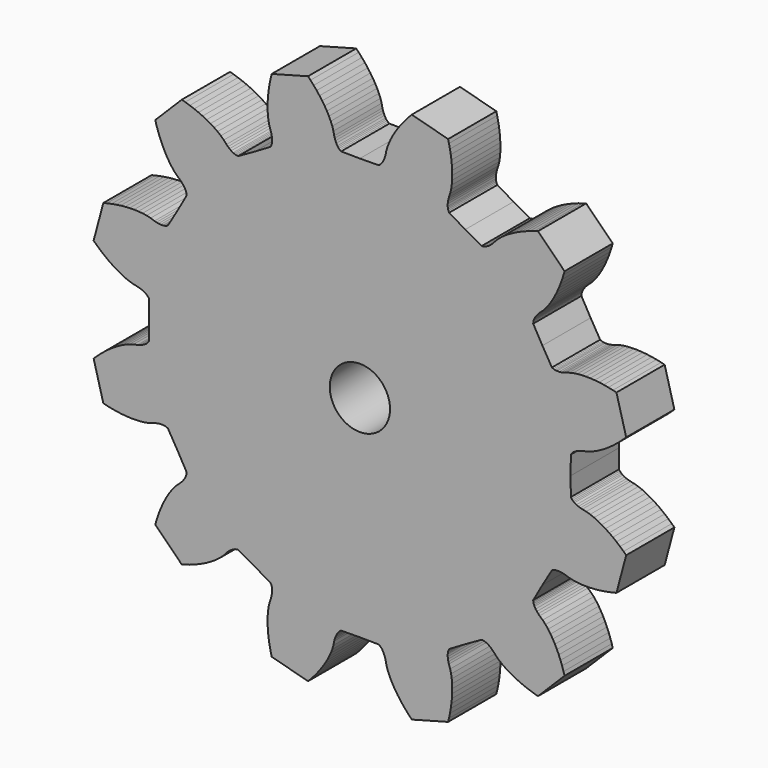
from build123d import *

# Parameters (mm, degrees)
F1_DEPTH = 3
F2_R     = 1.5
F3_DEPTH = 3.001


with BuildPart() as f1:
    # F0 (on Front) → F1 (new body)
    with BuildSketch(Plane.XZ):
        Polygon((-10.501529, 0.933249), (-10.492629, 4.9e-05), (-10.501529, -0.933051), (-10.546029, -0.998351), (-10.591729, -1.046951), (-10.638329, -1.086551), (-10.685329, -1.120051), (-10.780529, -1.174551), (-10.876929, -1.217251), (-10.974229, -1.251251), (-11.072329, -1.278251), (-11.269929, -1.318351), (-11.465429, -1.376351), (-11.658629, -1.452251), (-11.849829, -1.541951), (-12.039029, -1.643451), (-12.226229, -1.755851), (-12.411329, -1.878251), (-12.594229, -2.010151), (-12.774729, -2.151251), (-12.952829, -2.301051), (-13.128229, -2.459251), (-13.257929, -2.583351), (-12.773429, -4.391551), (-12.599029, -4.434151), (-12.368029, -4.483551), (-12.138929, -4.524251), (-11.912029, -4.556051), (-11.687729, -4.578951), (-11.466229, -4.592351), (-11.247929, -4.596051), (-11.033229, -4.589451), (-10.822829, -4.571451), (-10.617629, -4.540651), (-10.419329, -4.493051), (-10.228029, -4.428951), (-10.129629, -4.403351), (-10.028429, -4.384151), (-9.923529, -4.372851), (-9.813829, -4.372551), (-9.756329, -4.378051), (-9.696229, -4.389051), (-9.632329, -4.408251), (-9.561129, -4.442551), (-9.086929, -5.246251), (-8.628029, -6.058851), (-8.633829, -6.137651), (-8.649229, -6.202551), (-8.669729, -6.260051), (-8.693729, -6.312651), (-8.748929, -6.407551), (-8.811029, -6.492651), (-8.878329, -6.570751), (-8.949729, -6.643151), (-9.100829, -6.776751), (-9.241129, -6.924651), (-9.370529, -7.087051), (-9.491229, -7.260251), (-9.604329, -7.442851), (-9.710329, -7.633751), (-9.809329, -7.832251), (-9.901829, -8.037951), (-9.987629, -8.250351), (-10.066929, -8.469151), (-10.139729, -8.693851), (-10.190029, -8.866251), (-8.866329, -10.189951), (-8.693929, -10.139651), (-8.469229, -10.066851), (-8.250429, -9.987551), (-8.038029, -9.901751), (-7.832329, -9.809251), (-7.633829, -9.710251), (-7.442929, -9.604251), (-7.260329, -9.491151), (-7.087129, -9.370451), (-6.924729, -9.241051), (-6.776829, -9.100751), (-6.643229, -8.949651), (-6.570829, -8.878251), (-6.492729, -8.810951), (-6.407629, -8.748851), (-6.312729, -8.693651), (-6.260129, -8.669651), (-6.202629, -8.649151), (-6.137729, -8.633751), (-6.058929, -8.627951), (-5.246329, -9.086851), (-4.442629, -9.561051), (-4.408329, -9.632251), (-4.389129, -9.696151), (-4.378129, -9.756251), (-4.372629, -9.813751), (-4.372929, -9.923451), (-4.384229, -10.028351), (-4.403429, -10.129551), (-4.429029, -10.227951), (-4.493129, -10.419251), (-4.540729, -10.617551), (-4.571529, -10.822751), (-4.589529, -11.033151), (-4.596129, -11.247851), (-4.592429, -11.466151), (-4.579029, -11.687651), (-4.556129, -11.911951), (-4.524329, -12.138851), (-4.483629, -12.367951), (-4.434229, -12.598951), (-4.391629, -12.773351), (-2.583429, -13.257851), (-2.459329, -13.128151), (-2.301129, -12.952751), (-2.151329, -12.774651), (-2.010229, -12.594151), (-1.878329, -12.411251), (-1.755929, -12.226151), (-1.643529, -12.038951), (-1.542029, -11.849751), (-1.452329, -11.658551), (-1.376429, -11.465351), (-1.318429, -11.269851), (-1.278329, -11.072251), (-1.251329, -10.974151), (-1.217329, -10.876851), (-1.174629, -10.780451), (-1.120129, -10.685251), (-1.086629, -10.638251), (-1.047029, -10.591651), (-0.998429, -10.545951), (-0.933129, -10.501451), (-2.9e-05, -10.492551), (0.933171, -10.501451), (0.998471, -10.545951), (1.047071, -10.591651), (1.086671, -10.638251), (1.120171, -10.685251), (1.174671, -10.780451), (1.217371, -10.876851), (1.251371, -10.974151), (1.278371, -11.072251), (1.318471, -11.269851), (1.376471, -11.465351), (1.452371, -11.658551), (1.541971, -11.849751), (1.643571, -12.038951), (1.755971, -12.226151), (1.878371, -12.411251), (2.010271, -12.594151), (2.151271, -12.774651), (2.301071, -12.952751), (2.459371, -13.128151), (2.583471, -13.257851), (4.391671, -12.773351), (4.434271, -12.598951), (4.483571, -12.367951), (4.524271, -12.138851), (4.556171, -11.911951), (4.578971, -11.687651), (4.592471, -11.466151), (4.596171, -11.247851), (4.589571, -11.033151), (4.571571, -10.822751), (4.540671, -10.617551), (4.493171, -10.419251), (4.429071, -10.227951), (4.403471, -10.129551), (4.384171, -10.028351), (4.372971, -9.923451), (4.372571, -9.813751), (4.378071, -9.756251), (4.389071, -9.696151), (4.408271, -9.632251), (4.442671, -9.561051), (5.246371, -9.086851), (6.058871, -8.627951), (6.137671, -8.633751), (6.202671, -8.649151), (6.260171, -8.669651), (6.312771, -8.693651), (6.407571, -8.748851), (6.492771, -8.810951), (6.570771, -8.878251), (6.643271, -8.949651), (6.776771, -9.100751), (6.924771, -9.241051), (7.087071, -9.370451), (7.260371, -9.491151), (7.442871, -9.604251), (7.633771, -9.710251), (7.832371, -9.809251), (8.038071, -9.901751), (8.250471, -9.987551), (8.469171, -10.066851), (8.693971, -10.139651), (8.866371, -10.189951), (10.189971, -8.866251), (10.139671, -8.693851), (10.066971, -8.469151), (9.987671, -8.250351), (9.901771, -8.037951), (9.809371, -7.832251), (9.710271, -7.633751), (9.604371, -7.442851), (9.491271, -7.260251), (9.370571, -7.087051), (9.241171, -6.924651), (9.100871, -6.776751), (8.949771, -6.643151), (8.878271, -6.570751), (8.811071, -6.492651), (8.748871, -6.407551), (8.693671, -6.312651), (8.669771, -6.260051), (8.649171, -6.202551), (8.633871, -6.137651), (8.627971, -6.058851), (9.086871, -5.246251), (9.561171, -4.442551), (9.632371, -4.408251), (9.696271, -4.389051), (9.756371, -4.378051), (9.813871, -4.372551), (9.923571, -4.372851), (10.028371, -4.384151), (10.129671, -4.403351), (10.228071, -4.428951), (10.419271, -4.493051), (10.617671, -4.540651), (10.822871, -4.571451), (11.033271, -4.589451), (11.247871, -4.596051), (11.466271, -4.592351), (11.687771, -4.578951), (11.912071, -4.556051), (12.138971, -4.524251), (12.367971, -4.483551), (12.599071, -4.434151), (12.773471, -4.391551), (13.257971, -2.583351), (13.128271, -2.459251), (12.952871, -2.301051), (12.774771, -2.151251), (12.594271, -2.010151), (12.411371, -1.878251), (12.226271, -1.755851), (12.039071, -1.643451), (11.849871, -1.541951), (11.658671, -1.452251), (11.465471, -1.376351), (11.269971, -1.318351), (11.072271, -1.278251), (10.974271, -1.251251), (10.876971, -1.217251), (10.780571, -1.174551), (10.685371, -1.120051), (10.638271, -1.086551), (10.591771, -1.046951), (10.545971, -0.998351), (10.501571, -0.933051), (10.492671, 4.9e-05), (10.501571, 0.933249), (10.545971, 0.998549), (10.591771, 1.047149), (10.638271, 1.086749), (10.685371, 1.120249), (10.780571, 1.174749), (10.876971, 1.217449), (10.974271, 1.251449), (11.072271, 1.278449), (11.269971, 1.318549), (11.465471, 1.376549), (11.658671, 1.452449), (11.849871, 1.542049), (12.039071, 1.643649), (12.226271, 1.756049), (12.411371, 1.878449), (12.594271, 2.010349), (12.774771, 2.151349), (12.952871, 2.301149), (13.128271, 2.459449), (13.257971, 2.583549), (12.773471, 4.391749), (12.599071, 4.434349), (12.367971, 4.483649), (12.138971, 4.524349), (11.912071, 4.556249), (11.687771, 4.579049), (11.466271, 4.592549), (11.247871, 4.596249), (11.033271, 4.589649), (10.822871, 4.571649), (10.617671, 4.540749), (10.419271, 4.493249), (10.228071, 4.429149), (10.129671, 4.403549), (10.028371, 4.384249), (9.923571, 4.373049), (9.813871, 4.372649), (9.756371, 4.378149), (9.696271, 4.389149), (9.632371, 4.408349), (9.561171, 4.442749), (9.086871, 5.246449), (8.627971, 6.058949), (8.633871, 6.137749), (8.649171, 6.202749), (8.669771, 6.260249), (8.693671, 6.312849), (8.748871, 6.407649), (8.811071, 6.492849), (8.878271, 6.570849), (8.949771, 6.643349), (9.100871, 6.776849), (9.241171, 6.924849), (9.370571, 7.087149), (9.491271, 7.260449), (9.604371, 7.442949), (9.710271, 7.633849), (9.809371, 7.832449), (9.901771, 8.038149), (9.987671, 8.250549), (10.066971, 8.469249), (10.139671, 8.694049), (10.189971, 8.866449), (8.866371, 10.190049), (8.693971, 10.139749), (8.469171, 10.067049), (8.250471, 9.987749), (8.038071, 9.901849), (7.832371, 9.809449), (7.633771, 9.710349), (7.442871, 9.604449), (7.260371, 9.491349), (7.087071, 9.370649), (6.924771, 9.241249), (6.776771, 9.100949), (6.643271, 8.949849), (6.570771, 8.878349), (6.492771, 8.811149), (6.407571, 8.748949), (6.312771, 8.693749), (6.260171, 8.669849), (6.202671, 8.649249), (6.137671, 8.633949), (6.058871, 8.628049), (5.246371, 9.086949), (4.442671, 9.561249), (4.408271, 9.632449), (4.389071, 9.696349), (4.378071, 9.756449), (4.372571, 9.813949), (4.372971, 9.923649), (4.384171, 10.028449), (4.403471, 10.129749), (4.429071, 10.228149), (4.493171, 10.419349), (4.540671, 10.617749), (4.571571, 10.822949), (4.589571, 11.033349), (4.596171, 11.247949), (4.592471, 11.466349), (4.578971, 11.687849), (4.556171, 11.912149), (4.524271, 12.139049), (4.483571, 12.368049), (4.434271, 12.599149), (4.391671, 12.773549), (2.583471, 13.258049), (2.459371, 13.128349), (2.301071, 12.952949), (2.151271, 12.774849), (2.010271, 12.594349), (1.878371, 12.411449), (1.755971, 12.226349), (1.643571, 12.039149), (1.541971, 11.849949), (1.452371, 11.658749), (1.376471, 11.465549), (1.318471, 11.270049), (1.278371, 11.072349), (1.251371, 10.974349), (1.217371, 10.877049), (1.174671, 10.780649), (1.120171, 10.685449), (1.086671, 10.638349), (1.047071, 10.591849), (0.998471, 10.546049), (0.933171, 10.501649), (-2.9e-05, 10.492749), (-0.933129, 10.501649), (-0.998429, 10.546049), (-1.047029, 10.591849), (-1.086629, 10.638349), (-1.120129, 10.685449), (-1.174629, 10.780649), (-1.217329, 10.877049), (-1.251329, 10.974349), (-1.278329, 11.072349), (-1.318429, 11.270049), (-1.376429, 11.465549), (-1.452329, 11.658749), (-1.542029, 11.849949), (-1.643529, 12.039149), (-1.755929, 12.226349), (-1.878329, 12.411449), (-2.010229, 12.594349), (-2.151329, 12.774849), (-2.301129, 12.952949), (-2.459329, 13.128349), (-2.583429, 13.258049), (-4.391629, 12.773549), (-4.434229, 12.599149), (-4.483629, 12.368049), (-4.524329, 12.139049), (-4.556129, 11.912149), (-4.579029, 11.687849), (-4.592429, 11.466349), (-4.596129, 11.247949), (-4.589529, 11.033349), (-4.571529, 10.822949), (-4.540729, 10.617749), (-4.493129, 10.419349), (-4.429029, 10.228149), (-4.403429, 10.129749), (-4.384229, 10.028449), (-4.372929, 9.923649), (-4.372629, 9.813949), (-4.378129, 9.756449), (-4.389129, 9.696349), (-4.408329, 9.632449), (-4.442629, 9.561249), (-5.246329, 9.086949), (-6.058929, 8.628049), (-6.137729, 8.633949), (-6.202629, 8.649249), (-6.260129, 8.669849), (-6.312729, 8.693749), (-6.407629, 8.748949), (-6.492729, 8.811149), (-6.570829, 8.878349), (-6.643229, 8.949849), (-6.776829, 9.100949), (-6.924729, 9.241249), (-7.087129, 9.370649), (-7.260329, 9.491349), (-7.442929, 9.604449), (-7.633829, 9.710349), (-7.832329, 9.809449), (-8.038029, 9.901849), (-8.250429, 9.987749), (-8.469229, 10.067049), (-8.693929, 10.139749), (-8.866329, 10.190049), (-10.190029, 8.866449), (-10.139729, 8.694049), (-10.066929, 8.469249), (-9.987629, 8.250549), (-9.901829, 8.038149), (-9.809329, 7.832449), (-9.710329, 7.633849), (-9.604329, 7.442949), (-9.491229, 7.260449), (-9.370529, 7.087149), (-9.241129, 6.924849), (-9.100829, 6.776849), (-8.949729, 6.643349), (-8.878329, 6.570849), (-8.811029, 6.492849), (-8.748929, 6.407649), (-8.693729, 6.312849), (-8.669729, 6.260249), (-8.649229, 6.202749), (-8.633829, 6.137749), (-8.628029, 6.058949), (-9.086929, 5.246449), (-9.561129, 4.442749), (-9.632329, 4.408349), (-9.696229, 4.389149), (-9.756329, 4.378149), (-9.813829, 4.372649), (-9.923529, 4.373049), (-10.028429, 4.384249), (-10.129629, 4.403549), (-10.228029, 4.429149), (-10.419329, 4.493249), (-10.617629, 4.540749), (-10.822829, 4.571649), (-11.033229, 4.589649), (-11.247929, 4.596249), (-11.466229, 4.592549), (-11.687729, 4.579049), (-11.912029, 4.556249), (-12.138929, 4.524349), (-12.368029, 4.483649), (-12.599029, 4.434349), (-12.773429, 4.391749), (-13.257929, 2.583549), (-13.128229, 2.459449), (-12.952829, 2.301149), (-12.774729, 2.151349), (-12.594229, 2.010349), (-12.411329, 1.878449), (-12.226229, 1.756049), (-12.039029, 1.643649), (-11.849829, 1.542049), (-11.658629, 1.452449), (-11.465429, 1.376549), (-11.269929, 1.318549), (-11.072329, 1.278449), (-10.974229, 1.251449), (-10.876929, 1.217449), (-10.780529, 1.174749), (-10.685329, 1.120249), (-10.638329, 1.086749), (-10.591729, 1.047149), (-10.546029, 0.998549), align=None)
    extrude(amount=F1_DEPTH)

    # F2 (on face) → F3 (cut, through all)
    with BuildSketch(Plane.XZ.offset(3)):
        Circle(F2_R)
    extrude(amount=-F3_DEPTH, mode=Mode.SUBTRACT)


solid = f1.part
